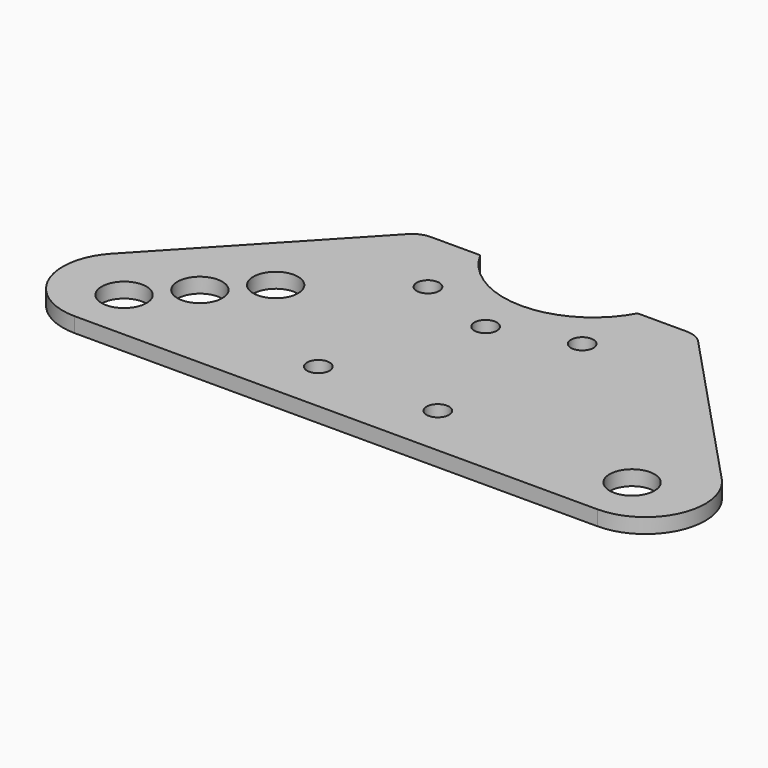
from build123d import *

# Parameters (mm, degrees)
F0_R     = 4.7625
F0_R_2   = 2.3876
F1_DEPTH = 1.5875
F2_R     = 5.08


with BuildPart() as f1:
    # F0 (on Top) → F1 (new body, symmetric)
    with BuildSketch(Plane.XY):
        with BuildLine():
            ThreePointArc((23.408243, 29.00893), (16.408146, 21.743158), (6.679082, 19.07143))
            ThreePointArc((6.679082, 19.07143), (-3.049982, 21.743158), (-10.05008, 29.00893))
            Line((-10.05008, 29.00893), (-22.683318, 29.00893))
            Line((-22.683318, 29.00893), (-58.14247, -8.761247))
            ThreePointArc((-58.14247, -8.761247), (-60.538568, -22.498319), (-48.883418, -30.15377))
            Line((-48.883418, -30.15377), (6.679082, -30.15377))
            Line((6.679082, -30.15377), (62.241582, -30.15377))
            ThreePointArc((62.241582, -30.15377), (73.896732, -22.498319), (71.500634, -8.761247))
            Line((71.500634, -8.761247), (36.041482, 29.00893))
            Line((36.041482, 29.00893), (23.408243, 29.00893))
        make_face()
        with Locations((-47.295918, -19.02857)):
            Circle(F0_R, mode=Mode.SUBTRACT)
        with Locations((-6.020918, -19.02857)):
            Circle(F0_R_2, mode=Mode.SUBTRACT)
        with Locations((-38.575799, -9.795503)):
            Circle(F0_R, mode=Mode.SUBTRACT)
        with Locations((19.379082, -19.04127)):
            Circle(F0_R_2, mode=Mode.SUBTRACT)
        with Locations((60.654082, -19.02857)):
            Circle(F0_R, mode=Mode.SUBTRACT)
        with Locations((-29.85568, -0.562436)):
            Circle(F0_R, mode=Mode.SUBTRACT)
        with Locations((-9.710865, 14.71416)):
            Circle(F0_R_2, mode=Mode.SUBTRACT)
        with Locations((6.679082, 9.54643)):
            Circle(F0_R_2, mode=Mode.SUBTRACT)
        with Locations((23.069028, 14.71416)):
            Circle(F0_R_2, mode=Mode.SUBTRACT)
    extrude(amount=F1_DEPTH, both=True)

    # F2
    f2_edges = [f1.edges().sort_by_distance(p)[0] for p in [
        (-22.683318, 29.00893, 0),
        (36.041482, 29.00893, 0),
    ]]
    fillet(f2_edges, radius=F2_R)


solid = f1.part
